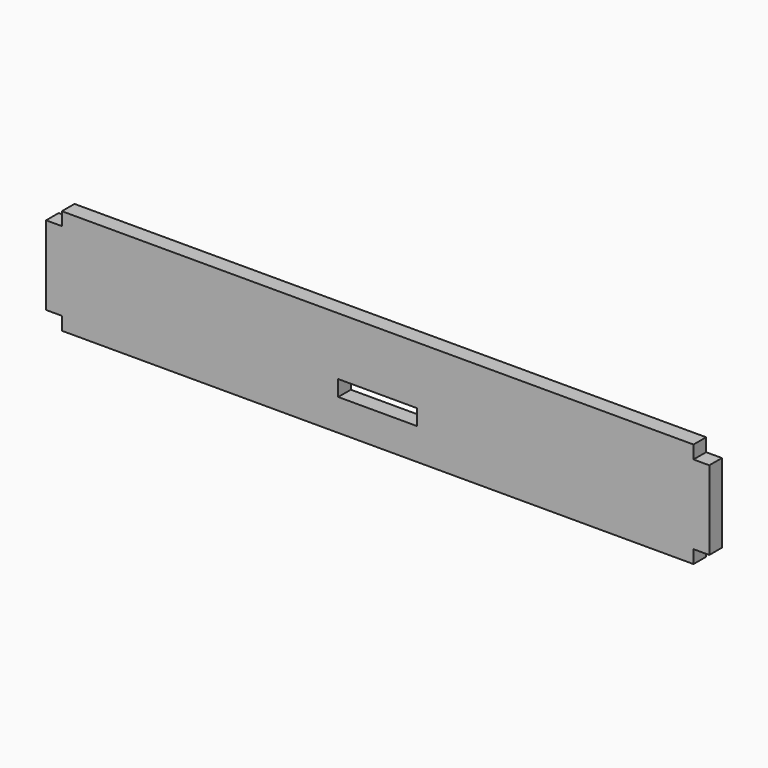
from build123d import *

# Parameters (mm, degrees)
F0_W     = 15
F0_H     = 3
F1_DEPTH = 3


with BuildPart() as f1:
    # F0 (on Front) → F1 (new body)
    with BuildSketch(Plane.XZ):
        Polygon((60, 10), (-60, 10), (-60, 7.5), (-63, 7.5), (-63, -7.5), (-60, -7.5), (-60, -10), (60, -10), (60, -7.5), (63, -7.5), (63, 7.5), (60, 7.5), align=None)
        with Locations((0, -2.5)):
            Rectangle(F0_W, F0_H, mode=Mode.SUBTRACT)
    extrude(amount=F1_DEPTH)


solid = f1.part
